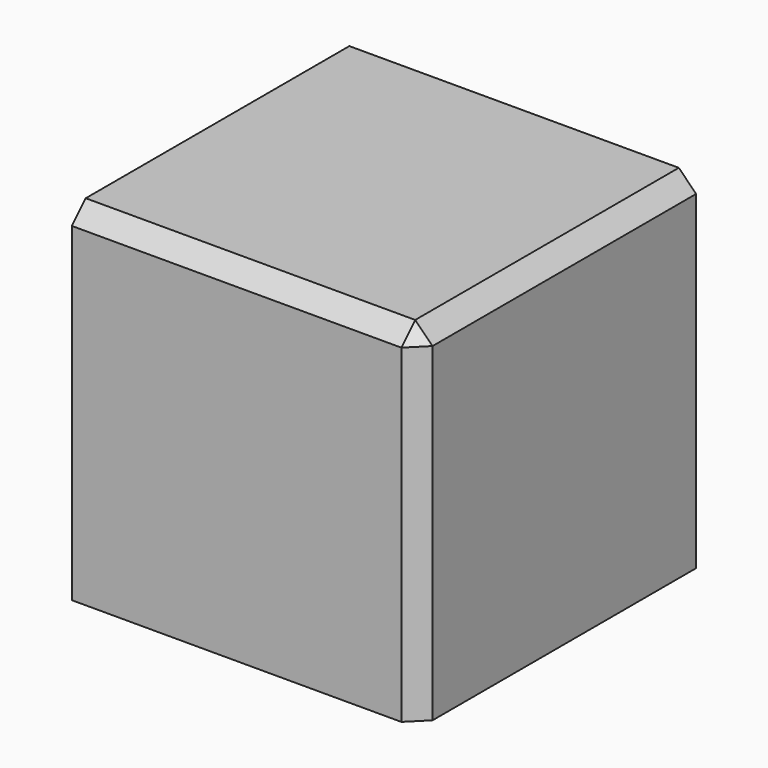
from build123d import *

# Parameters (mm, degrees)
F0_W     = 101.6
F0_H     = 101.6
F1_DEPTH = 101.6
F2_SIZE  = 5.08


with BuildPart() as f1:
    # F0 (on Front) → F1 (new body)
    with BuildSketch(Plane.XZ):
        Rectangle(F0_W, F0_H)
    extrude(amount=F1_DEPTH)

    # F2
    f2_edges = [f1.edges().sort_by_distance(p)[0] for p in [
        (50.8, -50.8, 50.8),
        (0, -101.6, 50.8),
        (50.8, -101.6, 0),
    ]]
    chamfer(f2_edges, length=F2_SIZE)


solid = f1.part
